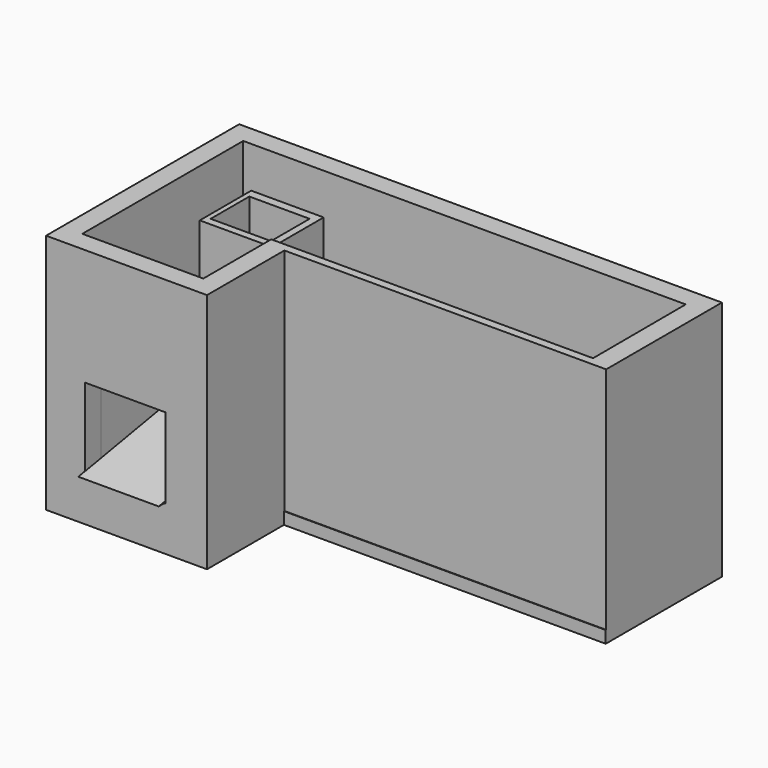
from build123d import *

# Parameters (mm, degrees)
PAD_DEPTH       = 15
PAD001_DEPTH    = 300
SKETCH004_W     = 100
SKETCH004_H     = 100
POCKET_DEPTH    = 50
PAD002_DEPTH    = 100
PAD003_DEPTH    = 150
SKETCH007_W     = 150
SKETCH007_H     = 250
PAD004_DEPTH    = 10
SKETCH008_W     = 75
SKETCH008_H     = 60
POCKET001_DEPTH = 20
POCKET002_DEPTH = 10
SKETCH009_W     = 150
SKETCH009_H     = 65
PAD005_DEPTH    = 10
SKETCH010_W     = 90
SKETCH010_H     = 80
SKETCH010_W_2   = 75
SKETCH010_H_2   = 60
PAD006_DEPTH    = 100
SKETCH011_W     = 65
SKETCH011_H     = 15
POCKET003_DEPTH = 87


with BuildPart() as body:
    # Sketch → Pad (new body)
    with BuildSketch(Plane.XY):
        Polygon((300, 150), (300, -30.48905), (-100, -30.48905), (-100, -150), (-300, -150), (-300, 150), align=None)
    extrude(amount=PAD_DEPTH)


with BuildPart() as body001:
    # Sketch002 → Pad001 (new body)
    with BuildSketch(Plane.XY):
        Polygon((-300, 150), (300, 150), (300, -29.811953), (-100, -29.811953), (-100, -150), (-300, -150), align=None)
        Polygon((-275, 125), (275, 125), (275.432071, -19.5), (-124.567929, -19.5), (-124.567929, -125), (-275, -125), align=None, mode=Mode.SUBTRACT)
    extrude(amount=PAD001_DEPTH)

    # Sketch004 (on Face5 of Pad001) → Pocket (cut)
    with BuildSketch(Plane.XZ.offset(150)):
        with Locations((-201.801602, 104.985483)):
            Rectangle(SKETCH004_W, SKETCH004_H)
    extrude(amount=-POCKET_DEPTH, mode=Mode.SUBTRACT)


with BuildPart() as body002:
    # Sketch005 → Pad002 (new body)
    with BuildSketch(Plane.YZ):
        Polygon((121.707213, 54.898708), (-153.973594, 5.907966), (-118.712154, 5.907966), (151.707213, 54.898708), align=None)
    extrude(amount=PAD002_DEPTH)


with BuildPart() as body002_1:
    # Body002 placement: moved
    add(body002.part.moved(Location((-252, -6, 50))))


with BuildPart() as body003:
    # Sketch006 → Pad003 (new body)
    with BuildSketch(Plane.XY):
        Polygon((-251.819016, -125.78898), (-251.819016, 116.437225), (-152.623703, 116.437225), (-152.623703, -124.65358), (-123.716895, -124.65358), (-123.716895, 149.21102), (-273.716895, 149.21102), (-273.716895, -125.78898), align=None)
    extrude(amount=PAD003_DEPTH)


with BuildPart() as body003_1:
    # Body003 placement: moved
    add(body003.part.moved(Location((0, 0, 5))))


with BuildPart() as body004:
    # Sketch007 → Pad004 (new body)
    with BuildSketch(Plane.XY):
        with Locations((-198.220518, 0)):
            Rectangle(SKETCH007_W, SKETCH007_H)
    extrude(amount=PAD004_DEPTH)

    # Sketch008 → Pocket001 (cut)
    with BuildSketch(Plane.XY):
        with Locations((-202.233911, 60.362169)):
            Rectangle(SKETCH008_W, SKETCH008_H)
    extrude(amount=-POCKET001_DEPTH, mode=Mode.SUBTRACT)

    # Sketch008 → Pocket002 (cut, symmetric)
    with BuildSketch(Plane.XY):
        with Locations((-202.233911, 60.362169)):
            Rectangle(SKETCH008_W, SKETCH008_H)
    extrude(amount=POCKET002_DEPTH, both=True, mode=Mode.SUBTRACT)


with BuildPart() as body004_1:
    # Body004 placement: moved
    add(body004.part.moved(Location((0, 0, 155))))


with BuildPart() as body005:
    # Sketch009 → Pad005 (new body)
    with BuildSketch(Plane.XY):
        with Locations((-164.835444, 59.018734)):
            Rectangle(SKETCH009_W, SKETCH009_H)
    extrude(amount=PAD005_DEPTH)


with BuildPart() as body005_1:
    # Body005 placement: moved
    add(body005.part.moved(Location((95, 1, 165))))


with BuildPart() as body006:
    # Sketch010 → Pad006 (new body)
    with BuildSketch(Plane.XY):
        with Locations((-201.629388, 60.775057)):
            Rectangle(SKETCH010_W, SKETCH010_H)
        with Locations((-202.932249, 59.982655)):
            Rectangle(SKETCH010_W_2, SKETCH010_H_2, mode=Mode.SUBTRACT)
    extrude(amount=PAD006_DEPTH)

    # Sketch011 (on Face2 of Pad006) → Pocket003 (cut)
    with BuildSketch(Plane.YZ.offset(-156.629388)):
        with Locations((60.126646, 7.5)):
            Rectangle(SKETCH011_W, SKETCH011_H)
    extrude(amount=-POCKET003_DEPTH, mode=Mode.SUBTRACT)


with BuildPart() as body006_1:
    # Body006 placement: moved
    add(body006.part.moved(Location((1, 0, 165))))


solid = Compound([body.part, body001.part, body002_1.part, body003_1.part, body004_1.part, body005_1.part, body006_1.part])
